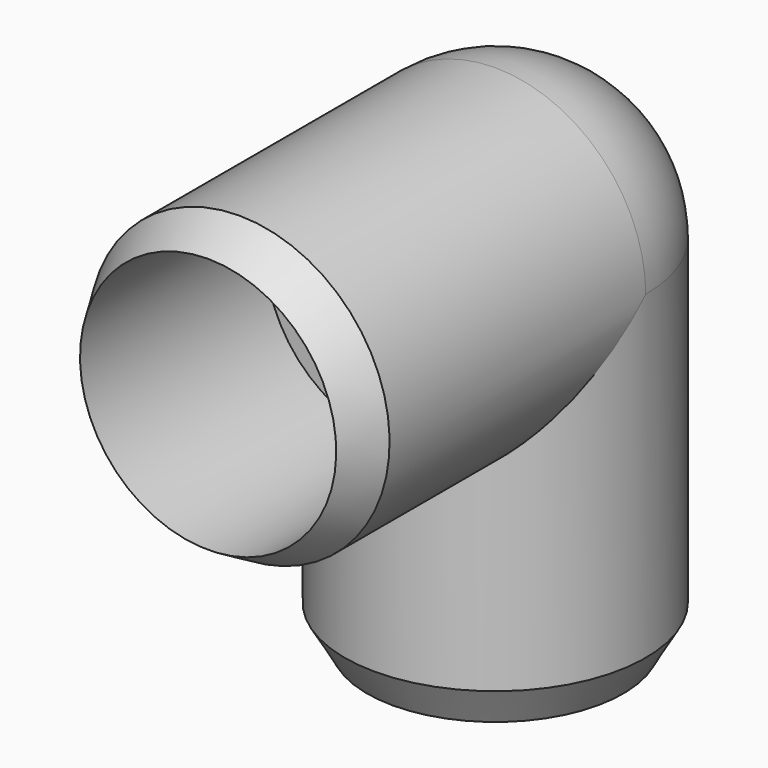
from build123d import *


with BuildPart() as f2:
    # F0 (on Right) → F2 (revolve)
    with BuildSketch(Plane.YZ):
        with BuildLine():
            Line((-52.6758568757, 24.765), (-59.055, 21.082))
            Line((-59.055, 21.082), (-20.955, 21.082))
            Line((-20.955, 21.082), (-20.955, 15.875))
            Line((-20.955, 15.875), (0, 15.875))
            ThreePointArc((0, 15.875), (11.2253201513, 11.2253201513), (15.875, 0))
            Line((15.875, 0), (24.765, 0))
            ThreePointArc((24.765, 0), (17.5114994361, 17.5114994361), (0, 24.765))
            Line((0, 24.765), (-52.6758568757, 24.765))
        make_face()
        with BuildLine():
            Line((-20.955, 21.082), (-59.055, 21.082))
            Line((-59.055, 21.082), (-59.055, 0))
            Line((-59.055, 0), (0, 0))
            Line((0, 0), (10.5189766587, 0))
            Line((10.5189766587, 0), (15.875, 0))
            ThreePointArc((15.875, 0), (11.2253201513, 11.2253201513), (0, 15.875))
            Line((0, 15.875), (-20.955, 15.875))
            Line((-20.955, 15.875), (-20.955, 21.082))
        make_face()
    revolve(axis=Axis((0, -21.59, 0), (0, 1, 0)))

    # F1 (on Right) → F3 (revolve)
    with BuildSketch(Plane.YZ):
        with BuildLine():
            Line((-24.765, -52.6758568757), (-21.082, -59.055))
            Line((-21.082, -59.055), (-21.082, -20.955))
            Line((-21.082, -20.955), (-15.875, -20.955))
            Line((-15.875, -20.955), (-15.875, 0))
            ThreePointArc((-15.875, 0), (-11.2253201513, 11.2253201513), (0, 15.875))
            Line((0, 15.875), (0, 24.765))
            ThreePointArc((0, 24.765), (-17.5114994361, 17.5114994361), (-24.765, 0))
            Line((-24.765, 0), (-24.765, -52.6758568757))
        make_face()
        with BuildLine():
            Line((-21.082, -20.955), (-21.082, -59.055))
            Line((-21.082, -59.055), (0, -59.055))
            Line((0, -59.055), (0, 0))
            Line((0, 0), (0, 15.875))
            ThreePointArc((0, 15.875), (-11.2253201513, 11.2253201513), (-15.875, 0))
            Line((-15.875, 0), (-15.875, -20.955))
            Line((-15.875, -20.955), (-21.082, -20.955))
        make_face()
    revolve(axis=Axis((0, 0, -21.59), (0, 0, 1)))

    # F0 (on Right) → F4 (revolve, cut)
    with BuildSketch(Plane.YZ):
        with BuildLine():
            Line((-20.955, 21.082), (-59.055, 21.082))
            Line((-59.055, 21.082), (-59.055, 0))
            Line((-59.055, 0), (0, 0))
            Line((0, 0), (10.5189766587, 0))
            Line((10.5189766587, 0), (15.875, 0))
            ThreePointArc((15.875, 0), (11.2253201513, 11.2253201513), (0, 15.875))
            Line((0, 15.875), (-20.955, 15.875))
            Line((-20.955, 15.875), (-20.955, 21.082))
        make_face()
    revolve(axis=Axis((0, -21.59, 0), (0, 1, 0)), mode=Mode.SUBTRACT)

    # F1 (on Right) → F5 (revolve, cut)
    with BuildSketch(Plane.YZ):
        with BuildLine():
            Line((-21.082, -20.955), (-21.082, -59.055))
            Line((-21.082, -59.055), (0, -59.055))
            Line((0, -59.055), (0, 0))
            Line((0, 0), (0, 15.875))
            ThreePointArc((0, 15.875), (-11.2253201513, 11.2253201513), (-15.875, 0))
            Line((-15.875, 0), (-15.875, -20.955))
            Line((-15.875, -20.955), (-21.082, -20.955))
        make_face()
    revolve(axis=Axis((0, 0, -21.59), (0, 0, 1)), mode=Mode.SUBTRACT)


solid = f2.part
